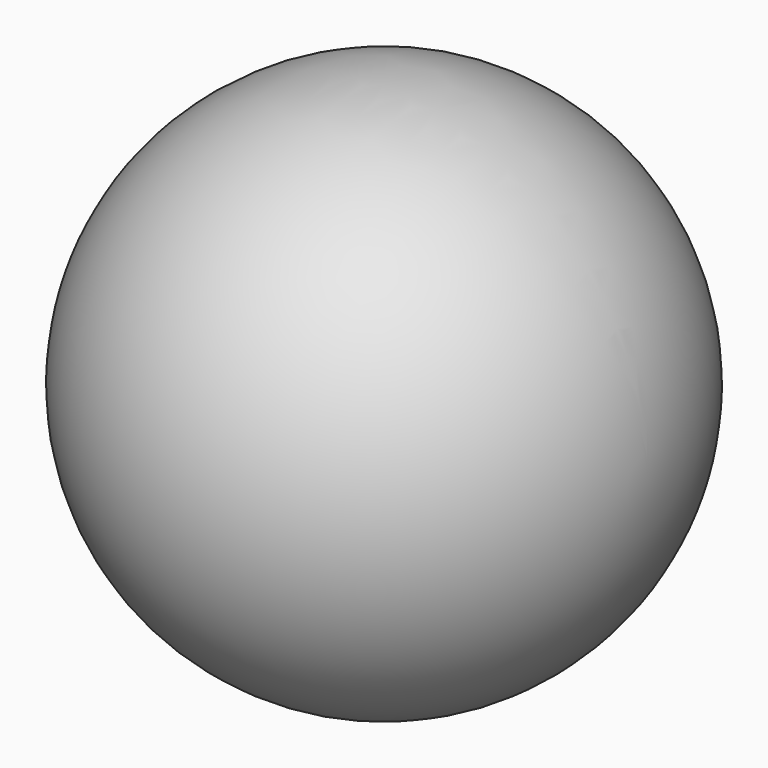
from build123d import *

# Parameters (mm, degrees)
F3_R     = 6.35
F4_DEPTH = 76.2


with BuildPart() as f1:
    # F0 (on Front) → F1 (revolve)
    with BuildSketch(Plane.XZ):
        with BuildLine():
            Line((-62.865, 0), (62.865, 0))
            ThreePointArc((62.865, 0), (0, 62.865), (-62.865, 0))
        make_face()
    revolve(axis=Axis((0, 0, 0), (1, 0, 0)))

    # F3 (on offset) → F4 (cut)
    with BuildSketch(Plane.XY.offset(-76.2)):
        Circle(F3_R)
    extrude(amount=F4_DEPTH, mode=Mode.SUBTRACT)


solid = f1.part
